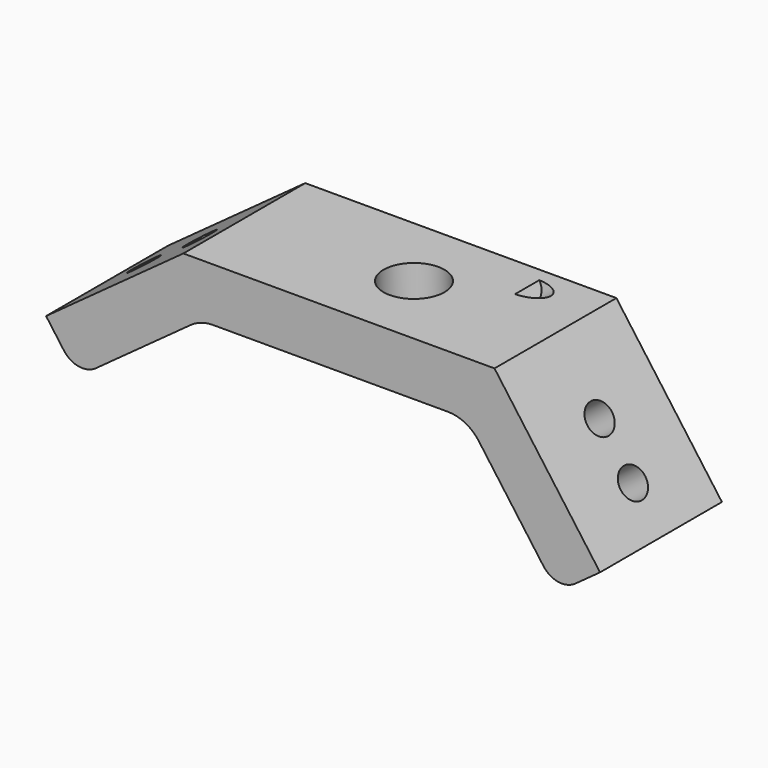
from build123d import *

# Parameters (mm, degrees)
F1_DEPTH      = 10
F1_DEPTH_BACK = 10
F3_D          = 4
F5_D          = 4
F5_DEPTH      = 18.2076214093
F7_D          = 8
F8_R          = 3
F9_R          = 5
F11_D         = 4


with BuildPart() as f1:
    # F0 (on Front) → F1 (new body, two sides)
    with BuildSketch(Plane.XZ) as f1_sk:
        Polygon((-40.2948366535, -6.0925860852), (-36.1803398875, -11.7557050458), (-20, 0), (15, 0), (26.7557050458, -16.1803398875), (32.4188240065, -12.0658431215), (18.5666781465, 7), (-22.2744378736, 7), align=None)
    extrude(amount=F1_DEPTH)
    extrude(f1_sk.sketch, amount=-F1_DEPTH_BACK)

    # F3 (through all)
    with Locations(Plane(origin=(-6.9098300563, 0, 9.510565163), x_dir=(0.8090169944, 0, 0.5877852523), z_dir=(0.5877852523, 0, -0.8090169944))):
        with Locations((0, -37.8532769899), (0, -24.0082326065), (-30.1803398875, 0), (-21.1803398875, 0)):
            Hole(F3_D / 2)

    # F5 (through all, one way)
    with BuildSketch(Plane(origin=(9.8176274578, 0, 7.1329238722), x_dir=(0, -1, 0), z_dir=(-0.8090169944, 0, -0.5877852523))):
        with Locations((16.0583042515, 0), (-6.1736582538, 0)):
            Circle(F5_D / 2)
    extrude(amount=-F5_DEPTH, mode=Mode.SUBTRACT)

    # F7 (through all)
    with Locations(Plane(origin=(0, 0, 0), x_dir=(1, 0, 0), z_dir=(0, 0, -1))):
        with Locations((0, 0)):
            Hole(F7_D / 2)

    # F8
    f8_edges = [f1.edges().sort_by_distance(p)[0] for p in [
        (-36.18034, 0, -11.755705),
        (26.755705, 0, -16.18034),
    ]]
    fillet(f8_edges, radius=F8_R)

    # F9
    f9_edges = [f1.edges().sort_by_distance(p)[0] for p in [
        (-20, 0, 0),
        (15, 0, 0),
    ]]
    fillet(f9_edges, radius=F9_R)

    # F11 (through all)
    with Locations(Plane(origin=(9.8176274578, 0, 7.1329238722), x_dir=(0, -1, 0), z_dir=(-0.8090169944, 0, -0.5877852523))):
        with Locations((0, -15.1145784184), (0, -22.5539375097)):
            Hole(F11_D / 2)


solid = f1.part
